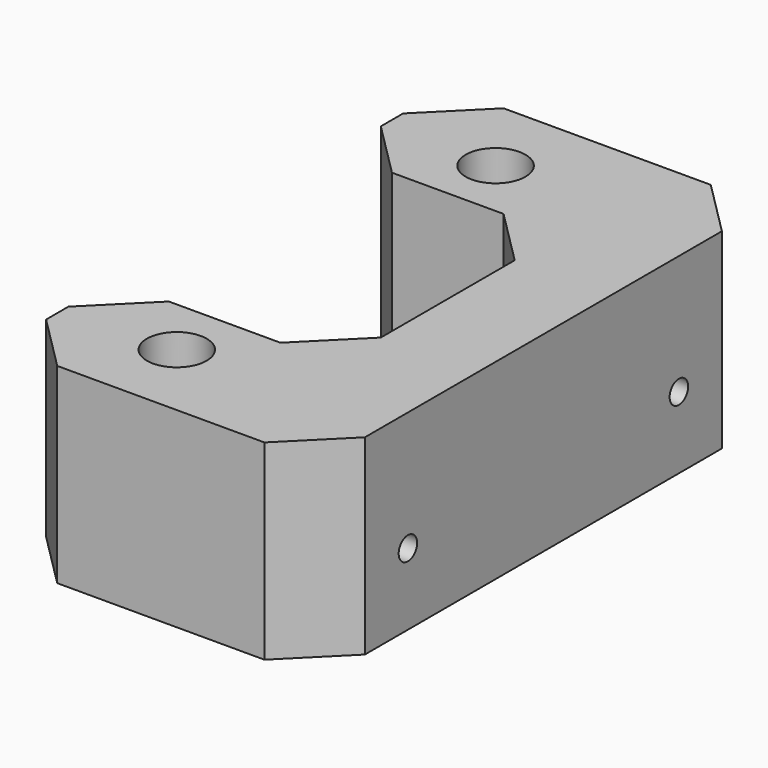
from build123d import *

# Parameters (mm, degrees)
BOX003_W        = 40
BOX003_H        = 70
BOX003_DEPTH    = 24
SKETCH012_R     = 2.2
SKETCH012_W     = 28
SKETCH012_H     = 35
POCKET012_DEPTH = 37
CHAMFER004_SIZE = 7
SKETCH013_R     = 3.75
POCKET013_DEPTH = 8
SKETCH014_R     = 1.45
POCKET014_DEPTH = 25


with BuildPart() as part:
    # Box003 → Box003 (new body)
    with BuildSketch(Plane(origin=(-267, 176.2, 345), x_dir=(1, 0, 0), z_dir=(0, 0, 1))):
        with Locations((20, 35)):
            Rectangle(BOX003_W, BOX003_H)
    extrude(amount=BOX003_DEPTH)

    # Sketch012 → Pocket012 (cut)
    with BuildSketch(Plane(origin=(-267, 176.2, 369), x_dir=(1, 0, 0), z_dir=(0, 0, 1))):
        with Locations((14, 60)):
            Circle(SKETCH012_R)
        with Locations((14, 10)):
            Circle(SKETCH012_R)
        with Locations((14, 35)):
            Rectangle(SKETCH012_W, SKETCH012_H)
    extrude(amount=-POCKET012_DEPTH, mode=Mode.SUBTRACT)

    # Chamfer004
    chamfer004_edges = [part.edges().sort_by_distance(p)[0] for p in [
        (-227, 176.2, 357),
        (-267, 176.2, 357),
        (-267, 193.7, 357),
        (-239, 193.7, 357),
        (-239, 228.7, 357),
        (-267, 228.7, 357),
        (-267, 246.2, 357),
        (-227, 246.2, 357),
    ]]
    chamfer(chamfer004_edges, length=CHAMFER004_SIZE)

    # Sketch013 → Pocket013 (cut)
    with BuildSketch(Plane(origin=(-267, 176.2, 369), x_dir=(1, 0, 0), z_dir=(0, 0, 1))):
        with Locations((14, 60)):
            Circle(SKETCH013_R)
        with Locations((14, 10)):
            Circle(SKETCH013_R)
    extrude(amount=-POCKET013_DEPTH, mode=Mode.SUBTRACT)

    # Sketch014 → Pocket014 (cut)
    with BuildSketch(Plane(origin=(-227, 176.2, 345), x_dir=(0, 1, 0), z_dir=(1, 0, 0))):
        with Locations((13.75, 9)):
            Circle(SKETCH014_R)
        with Locations((56.25, 9)):
            Circle(SKETCH014_R)
    extrude(amount=-POCKET014_DEPTH, mode=Mode.SUBTRACT)


solid = part.part
